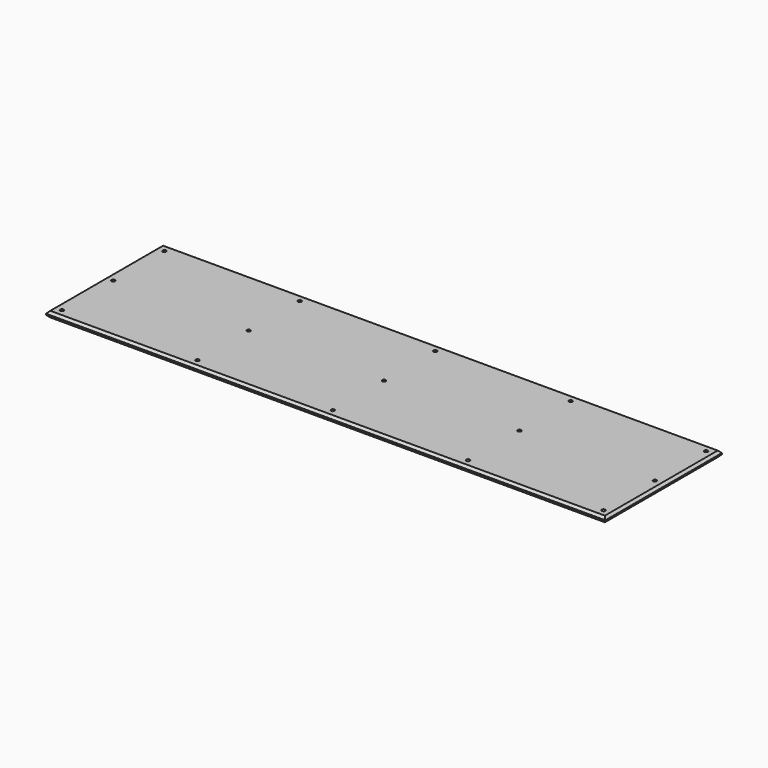
from build123d import *

# Parameters (mm, degrees)
F0_R     = 3.81
F1_DEPTH = 12.7
F2_SIZE  = 5.08


with BuildPart() as f1:
    # F0 (on Top) → F1 (new body)
    with BuildSketch(Plane.XY):
        with BuildLine():
            Line((603.25, -157.1625), (603.25, 157.1625))
            Line((603.25, 157.1625), (-584.2, 157.1625))
            Line((-584.2, 157.1625), (-584.2, 141.9225))
            ThreePointArc((-584.2, 141.9225), (-581.505923, 140.806577), (-580.39, 138.1125))
            ThreePointArc((-580.39, 138.1125), (-584.2, 134.3025), (-588.01, 138.1125))
            Line((-588.01, 138.1125), (-603.25, 138.1125))
            Line((-603.25, 138.1125), (-603.25, -157.1625))
            Line((-603.25, -157.1625), (603.25, -157.1625))
        make_face()
        with Locations((-584.2, -138.1125)):
            Circle(F0_R, mode=Mode.SUBTRACT)
        with Locations((-292.1, -138.1125)):
            Circle(F0_R, mode=Mode.SUBTRACT)
        with Locations((0, -138.1125)):
            Circle(F0_R, mode=Mode.SUBTRACT)
        with Locations((292.1, -138.1125)):
            Circle(F0_R, mode=Mode.SUBTRACT)
        with Locations((584.2, -138.1125)):
            Circle(F0_R, mode=Mode.SUBTRACT)
        with Locations((-584.2, 0)):
            Circle(F0_R, mode=Mode.SUBTRACT)
        with Locations((-292.1, 0)):
            Circle(F0_R, mode=Mode.SUBTRACT)
        with Locations((-292.1, 138.1125)):
            Circle(F0_R, mode=Mode.SUBTRACT)
        Circle(F0_R, mode=Mode.SUBTRACT)
        with Locations((292.1, 0)):
            Circle(F0_R, mode=Mode.SUBTRACT)
        with Locations((584.2, 0)):
            Circle(F0_R, mode=Mode.SUBTRACT)
        with Locations((0, 138.1125)):
            Circle(F0_R, mode=Mode.SUBTRACT)
        with Locations((292.1, 138.1125)):
            Circle(F0_R, mode=Mode.SUBTRACT)
        with Locations((584.2, 138.1125)):
            Circle(F0_R, mode=Mode.SUBTRACT)
        with BuildLine():
            Line((-584.2, 141.9225), (-584.2, 157.1625))
            Line((-584.2, 157.1625), (-603.25, 157.1625))
            Line((-603.25, 157.1625), (-603.25, 138.1125))
            Line((-603.25, 138.1125), (-588.01, 138.1125))
            ThreePointArc((-588.01, 138.1125), (-586.894077, 140.806577), (-584.2, 141.9225))
        make_face()
    extrude(amount=F1_DEPTH)

    # F2
    f2_edges = [f1.edges().sort_by_distance(p)[0] for p in [
        (0, 157.1625, 0),
        (603.25, 0, 0),
        (0, -157.1625, 0),
        (-603.25, 0, 0),
        (0, -157.1625, 12.7),
        (603.25, 0, 12.7),
        (0, 157.1625, 12.7),
        (-603.25, 0, 12.7),
    ]]
    chamfer(f2_edges, length=F2_SIZE)


solid = f1.part
